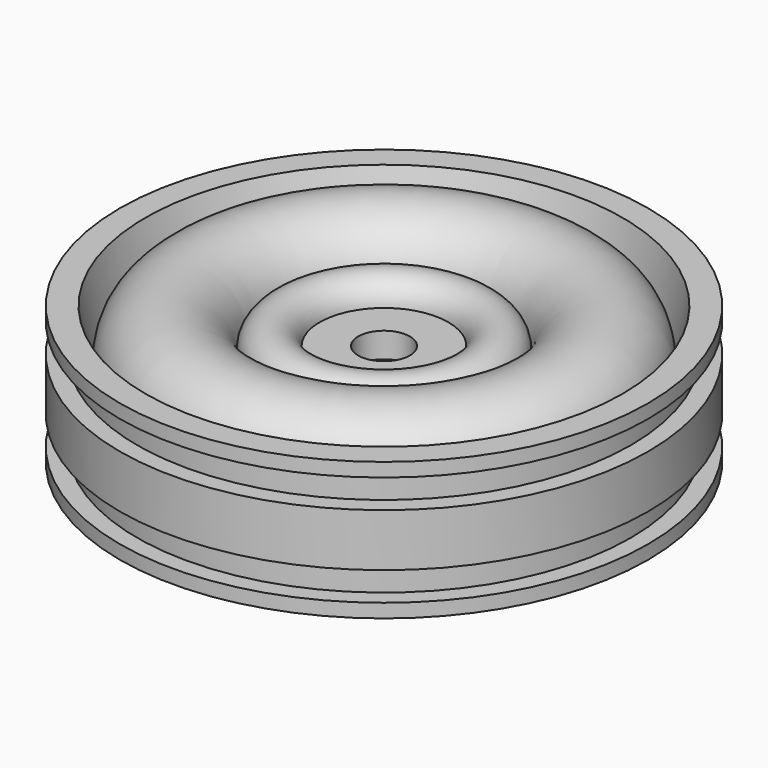
from build123d import *

# Parameters (mm, degrees)
F2_R     = 2.25
F3_DEPTH = 8.916156


with BuildPart() as f1:
    # F0 (on Front) → F1 (revolve)
    with BuildSketch(Plane.XZ):
        with BuildLine():
            Line((4.850819, 0), (0, 0))
            Line((0, 0), (0, -1.915156))
            ThreePointArc((0, -1.915156), (3.067572, -2.429197), (5.8, -3.915156))
            Line((5.8, -3.915156), (5.8, -8.915156))
            Line((5.8, -8.915156), (10, -8.915156))
            Line((10, -8.915156), (10, -2))
            Line((10, -2), (18.356489, -2))
            Line((18.356489, -2), (18.356489, -8.915156))
            Line((18.356489, -8.915156), (23, -8.915156))
            Line((23, -8.915156), (23, -7.715156))
            Line((23, -7.715156), (21.5, -7.715156))
            Line((21.5, -7.715156), (21.5, -5.215156))
            Line((21.5, -5.215156), (23, -5.215156))
            Line((23, -5.215156), (23, -0.615156))
            Line((23, -0.615156), (21.5, -0.615156))
            Line((21.5, -0.615156), (21.5, 1.884844))
            Line((21.5, 1.884844), (23, 1.884844))
            Line((23, 1.884844), (23, 3.084844))
            Line((23, 3.084844), (20.772453, 3.084844))
            Line((20.772453, 3.084844), (19.854128, -0.925569))
            Line((19.854128, -0.925569), (19.694118, 0))
            ThreePointArc((19.694118, 0), (14.847059, 4.035723), (10, 0))
            ThreePointArc((10, 0), (7.801044, 1.972172), (5.602089, 0))
            Line((5.602089, 0), (4.850819, 0))
        make_face()
    revolve(axis=Axis((0, 0, -0.957578), (0, 0, -1)))

    # F2 (on face) → F3 (cut, through all)
    with BuildSketch(Plane.XY):
        Circle(F2_R)
    extrude(amount=-F3_DEPTH, mode=Mode.SUBTRACT)


solid = f1.part
